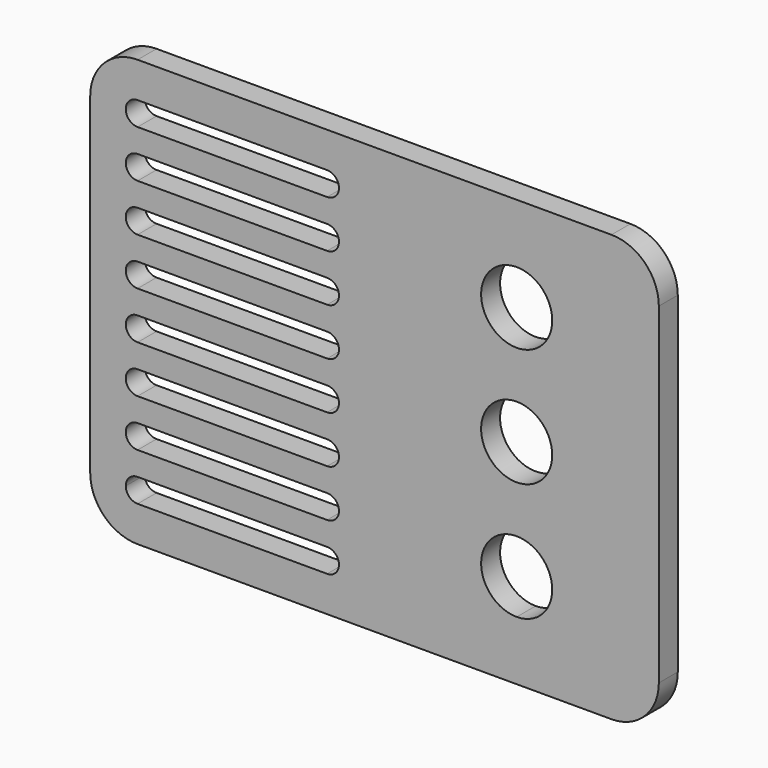
from build123d import *

# Parameters (mm, degrees)
F0_R     = 9.525
F1_DEPTH = 6.35


with BuildPart() as f1:
    # F0 (on Front) → F1 (new body)
    with BuildSketch(Plane.XZ):
        with BuildLine():
            ThreePointArc((0, 12.7), (3.719744, 3.719744), (12.7, 0))
            Line((12.7, 0), (114.3, 0))
            Line((114.3, 0), (139.7, 0))
            ThreePointArc((139.7, 0), (148.680256, 3.719744), (152.4, 12.7))
            Line((152.4, 12.7), (152.4, 25.4))
            Line((152.4, 25.4), (152.4, 101.6))
            ThreePointArc((152.4, 101.6), (148.680256, 110.580256), (139.7, 114.3))
            Line((139.7, 114.3), (12.7, 114.3))
            ThreePointArc((12.7, 114.3), (3.719744, 110.580256), (0, 101.6))
            Line((0, 101.6), (0, 12.7))
        make_face()
        with BuildLine():
            ThreePointArc((12.7, 9.525), (10.454936, 10.454936), (9.525, 12.7))
            ThreePointArc((9.525, 12.7), (10.454936, 14.945064), (12.7, 15.875))
            Line((12.7, 15.875), (63.5, 15.875))
            ThreePointArc((63.5, 15.875), (66.675, 12.7), (63.5, 9.525))
            Line((63.5, 9.525), (12.7, 9.525))
        make_face(mode=Mode.SUBTRACT)
        with BuildLine():
            ThreePointArc((12.7, 22.225), (9.525, 25.4), (12.7, 28.575))
            Line((12.7, 28.575), (63.5, 28.575))
            ThreePointArc((63.5, 28.575), (66.675, 25.4), (63.5, 22.225))
            Line((63.5, 22.225), (12.7, 22.225))
        make_face(mode=Mode.SUBTRACT)
        with BuildLine():
            ThreePointArc((12.7, 34.925), (9.525, 38.1), (12.7, 41.275))
            Line((12.7, 41.275), (63.5, 41.275))
            ThreePointArc((63.5, 41.275), (66.675, 38.1), (63.5, 34.925))
            Line((63.5, 34.925), (12.7, 34.925))
        make_face(mode=Mode.SUBTRACT)
        with BuildLine():
            ThreePointArc((12.7, 47.625), (9.525, 50.8), (12.7, 53.975))
            Line((12.7, 53.975), (63.5, 53.975))
            ThreePointArc((63.5, 53.975), (66.675, 50.8), (63.5, 47.625))
            Line((63.5, 47.625), (12.7, 47.625))
        make_face(mode=Mode.SUBTRACT)
        with BuildLine():
            ThreePointArc((114.3, 15.875), (107.564808, 32.135192), (123.825, 25.4))
            ThreePointArc((123.825, 25.4), (121.035192, 18.664808), (114.3, 15.875))
        make_face(mode=Mode.SUBTRACT)
        with BuildLine():
            ThreePointArc((12.7, 60.325), (9.525, 63.5), (12.7, 66.675))
            Line((12.7, 66.675), (63.5, 66.675))
            ThreePointArc((63.5, 66.675), (66.675, 63.5), (63.5, 60.325))
            Line((63.5, 60.325), (12.7, 60.325))
        make_face(mode=Mode.SUBTRACT)
        with BuildLine():
            ThreePointArc((12.7, 73.025), (9.525, 76.2), (12.7, 79.375))
            Line((12.7, 79.375), (63.5, 79.375))
            ThreePointArc((63.5, 79.375), (66.675, 76.2), (63.5, 73.025))
            Line((63.5, 73.025), (12.7, 73.025))
        make_face(mode=Mode.SUBTRACT)
        with BuildLine():
            ThreePointArc((12.7, 85.725), (9.525, 88.9), (12.7, 92.075))
            Line((12.7, 92.075), (63.5, 92.075))
            ThreePointArc((63.5, 92.075), (66.675, 88.9), (63.5, 85.725))
            Line((63.5, 85.725), (12.7, 85.725))
        make_face(mode=Mode.SUBTRACT)
        with BuildLine():
            ThreePointArc((12.7, 98.425), (9.525, 101.6), (12.7, 104.775))
            Line((12.7, 104.775), (63.5, 104.775))
            ThreePointArc((63.5, 104.775), (66.675, 101.6), (63.5, 98.425))
            Line((63.5, 98.425), (12.7, 98.425))
        make_face(mode=Mode.SUBTRACT)
        with Locations((114.3, 57.15)):
            Circle(F0_R, mode=Mode.SUBTRACT)
        with Locations((114.3, 88.9)):
            Circle(F0_R, mode=Mode.SUBTRACT)
    extrude(amount=F1_DEPTH)


solid = f1.part
